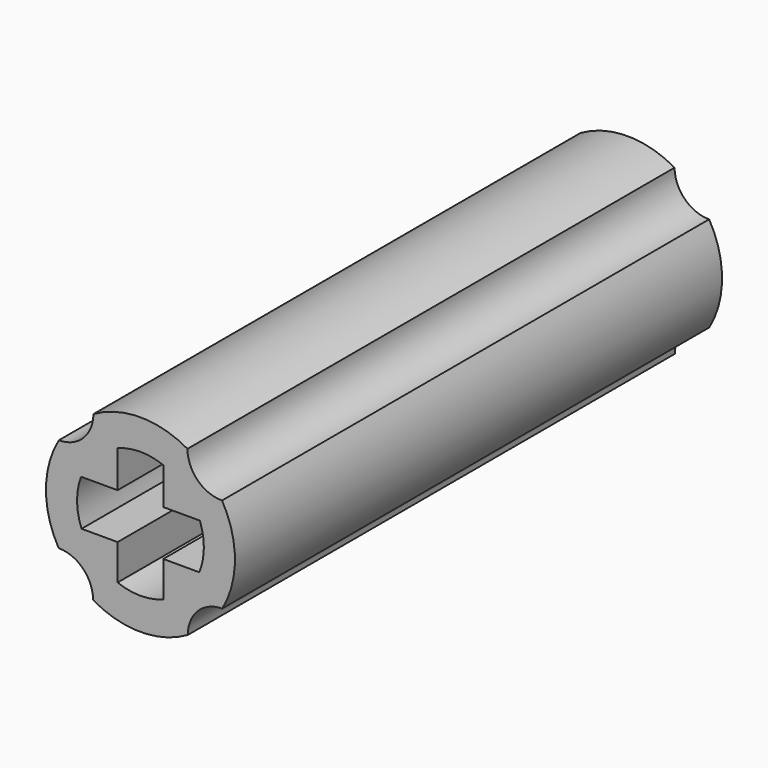
from build123d import *

# Parameters (mm, degrees)
F1_DEPTH = 12
F2_DEPTH = 4


with BuildPart() as f1:
    # F0 (on Front) → F1 (new body, symmetric)
    with BuildSketch(Plane.XZ):
        with BuildLine():
            ThreePointArc((-1.8533351034, 3.2312186547), (-2.2528950169, 2.2725457185), (-3.215001733, 1.8813263557))
            ThreePointArc((-3.215001733, 1.8813263557), (-3.7249912206, 0.0080874273), (-3.2231405801, -1.867348334))
            ThreePointArc((-3.2231405801, -1.867348334), (-2.2627416998, -2.2627416998), (-1.867348334, -3.2231405801))
            ThreePointArc((-1.867348334, -3.2231405801), (0, -3.725), (1.867348334, -3.2231405801))
            ThreePointArc((1.867348334, -3.2231405801), (2.2627416998, -2.2627416998), (3.2231405801, -1.867348334))
            ThreePointArc((3.2231405801, -1.867348334), (3.7249912206, 0.0080874273), (3.215001733, 1.8813263557))
            ThreePointArc((3.215001733, 1.8813263557), (2.2528950169, 2.2725457185), (1.8533351034, 3.2312186547))
            ThreePointArc((1.8533351034, 3.2312186547), (0, 3.725), (-1.8533351034, 3.2312186547))
        make_face()
        with BuildLine():
            ThreePointArc((-2.3419038887, 0.9), (-1.7775932123, 1.7844041548), (-0.9, 2.3592497012))
            ThreePointArc((-0.9, 2.3592497012), (0, 2.5269408414), (0.9, 2.3592497012))
            ThreePointArc((0.9, 2.3592497012), (1.7775932123, 1.7844041548), (2.3419038887, 0.9))
            ThreePointArc((2.3419038887, 0.9), (2.4594124113, 0.47098891), (2.499, 0.0279408414))
            ThreePointArc((2.499, 0.0279408414), (2.4539257567, -0.4445518891), (2.3203290273, -0.9))
            ThreePointArc((2.3203290273, -0.9), (1.75641402, -1.749701077), (0.9, -2.3033680185))
            ThreePointArc((0.9, -2.3033680185), (0, -2.4710591586), (-0.9, -2.3033680185))
            ThreePointArc((-0.9, -2.3033680185), (-1.75641402, -1.749701077), (-2.3203290273, -0.9))
            ThreePointArc((-2.3203290273, -0.9), (-2.4988205099, -0.0020101065), (-2.3419038887, 0.9))
        make_face(mode=Mode.SUBTRACT)
        with BuildLine():
            ThreePointArc((2.3419038887, 0.9), (1.7775932123, 1.7844041548), (0.9, 2.3592497012))
            Line((0.9, 2.3592497012), (0.9, 0.9))
            Line((0.9, 0.9), (2.3419038887, 0.9))
        make_face()
        with BuildLine():
            Line((-0.9, 0.9), (-0.9, 2.3592497012))
            ThreePointArc((-0.9, 2.3592497012), (-1.7775932123, 1.7844041548), (-2.3419038887, 0.9))
            Line((-2.3419038887, 0.9), (-0.9, 0.9))
        make_face()
        with BuildLine():
            ThreePointArc((0.9, -2.3033680185), (1.75641402, -1.749701077), (2.3203290273, -0.9))
            Line((2.3203290273, -0.9), (0.9, -0.9))
            Line((0.9, -0.9), (0.9, -2.3033680185))
        make_face()
        with BuildLine():
            Line((-0.9, -0.9), (-2.3203290273, -0.9))
            ThreePointArc((-2.3203290273, -0.9), (-1.75641402, -1.749701077), (-0.9, -2.3033680185))
            Line((-0.9, -2.3033680185), (-0.9, -0.9))
        make_face()
    extrude(amount=F1_DEPTH, both=True)

    # F0 (on Front) → F2 (join, symmetric)
    with BuildSketch(Plane.XZ):
        with BuildLine():
            ThreePointArc((0.9, 2.3592497012), (0, 2.5269408414), (-0.9, 2.3592497012))
            Line((-0.9, 2.3592497012), (-0.9, 0.9))
            Line((-0.9, 0.9), (-2.3419038887, 0.9))
            ThreePointArc((-2.3419038887, 0.9), (-2.4988205099, -0.0020101065), (-2.3203290273, -0.9))
            Line((-2.3203290273, -0.9), (-0.9, -0.9))
            Line((-0.9, -0.9), (-0.9, -2.3033680185))
            ThreePointArc((-0.9, -2.3033680185), (0, -2.4710591586), (0.9, -2.3033680185))
            Line((0.9, -2.3033680185), (0.9, -0.9))
            Line((0.9, -0.9), (2.3203290273, -0.9))
            ThreePointArc((2.3203290273, -0.9), (2.4539257567, -0.4445518891), (2.499, 0.0279408414))
            ThreePointArc((2.499, 0.0279408414), (2.4594124113, 0.47098891), (2.3419038887, 0.9))
            Line((2.3419038887, 0.9), (0.9, 0.9))
            Line((0.9, 0.9), (0.9, 2.3592497012))
        make_face()
    extrude(amount=F2_DEPTH, both=True)


solid = f1.part
